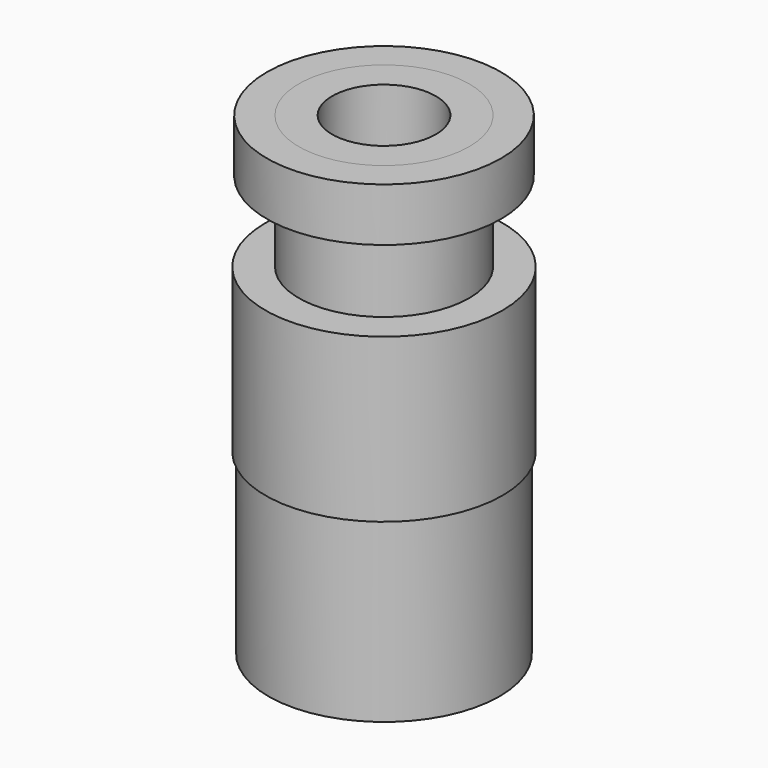
from build123d import *

# Parameters (mm, degrees)
F0_R     = 4
F1_DEPTH = 5.5
F2_R     = 3.9
F3_DEPTH = 6
F4_R     = 2.875
F4_R_2   = 1.75
F5_DEPTH = 4.5
F6_R     = 3.95
F6_R_2   = 2.875
F7_DEPTH = 1.8


with BuildPart() as f1:
    # F0 (on Top) → F1 (new body)
    with BuildSketch(Plane.XY):
        Circle(F0_R)
    extrude(amount=F1_DEPTH)

    # F4 (on face) → F5 (join)
    with BuildSketch(Plane.XY.offset(5.5)):
        Circle(F4_R)
        Circle(F4_R_2, mode=Mode.SUBTRACT)
    extrude(amount=F5_DEPTH)


with BuildPart() as f3:
    # F2 (on face) → F3 (new body)
    with BuildSketch(Plane(origin=(0, 0, 0), x_dir=(1, 0, 0), z_dir=(0, 0, -1))):
        Circle(F2_R)
    extrude(amount=F3_DEPTH)


with BuildPart() as f7:
    # F6 (on face) → F7 (new body)
    with BuildSketch(Plane.XY.offset(10)):
        Circle(F6_R)
        Circle(F6_R_2, mode=Mode.SUBTRACT)
    extrude(amount=-F7_DEPTH)


solid = Compound([f1.part, f3.part, f7.part])
